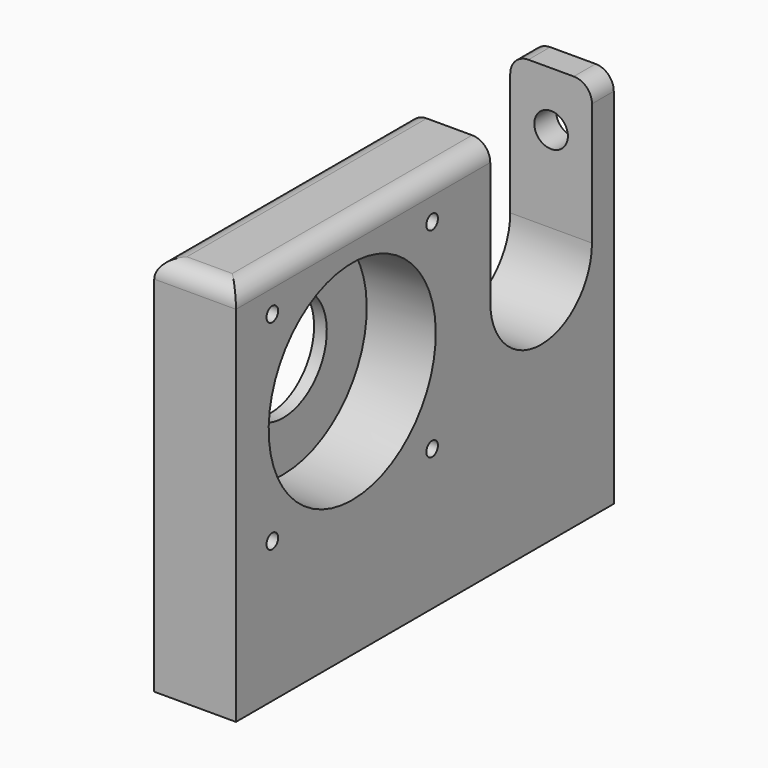
from build123d import *

# Parameters (mm, degrees)
CYLINDER100_R               = 6
CYLINDER100_DEPTH           = 9
CYLINDER020_R               = 0.8
CYLINDER020_DEPTH           = 20
ARRAY001006_X_COUNT         = 2
ARRAY001006_X_PITCH         = 22
ARRAY001006_Y_COUNT         = 2
ARRAY001006_Y_PITCH         = 22
ARRAY001006_PLACEMENT_ANGLE = 90
CYLINDER101_R               = 7
CYLINDER101_DEPTH           = 9
BOX008_W                    = 14
BOX008_H                    = 50
BOX008_DEPTH                = 9
FUSION008_ROLL_ANGLE        = 90
FUSION008_PLACEMENT_ANGLE   = 90
CYLINDER106_R               = 2.1
CYLINDER106_DEPTH           = 10
CYLINDER105_R               = 1.85
CYLINDER105_DEPTH           = 20
FUSION009_PLACEMENT_ANGLE   = 90
CYLINDER099_R               = 11.5
CYLINDER099_DEPTH           = 9
BOX_W                       = 9
BOX_H                       = 52
BOX_DEPTH                   = 42
FILLET_R                    = 2


with BuildPart() as lead_hole:
    # Cylinder100 → Cylinder100 (new body)
    with BuildSketch(Plane(origin=(111, 0, 21.5), x_dir=(0, 0, -1), z_dir=(1, 0, 0))):
        Circle(CYLINDER100_R)
    extrude(amount=CYLINDER100_DEPTH)


with BuildPart() as lead_holder_hole_array001:
    # Cylinder020 → Cylinder020 (new body)
    with BuildSketch(Plane.XY):
        Circle(CYLINDER020_R)
    extrude(amount=CYLINDER020_DEPTH)

    # Array001006 X: lead holder hole array001 ×2


with BuildPart() as lead_holder_hole_array001_1:
    add(lead_holder_hole_array001.part)
    with Locations(*[(i * ARRAY001006_X_PITCH, 0, 0) for i in range(1, ARRAY001006_X_COUNT)]):
        add(lead_holder_hole_array001.part)

    # Array001006 Y: lead holder hole array001 ×2


with BuildPart() as lead_holder_hole_array001_2:
    add(lead_holder_hole_array001_1.part)
    with Locations(*[(0, i * ARRAY001006_Y_PITCH, 0) for i in range(1, ARRAY001006_Y_COUNT)]):
        add(lead_holder_hole_array001_1.part)


with BuildPart() as lead_holder_hole_array001_3:
    # Array001006 placement: moved
    add(lead_holder_hole_array001_2.part.moved(Location((111, -11, 32.5))).rotate(Axis((111, -11, 32.5), (0, 1, 0)), ARRAY001006_PLACEMENT_ANGLE))


with BuildPart() as syringe_hole:
    # Cylinder101 → Cylinder101 (new body)
    with BuildSketch(Plane.XY):
        Circle(CYLINDER101_R)
    extrude(amount=CYLINDER101_DEPTH)


with BuildPart() as syringe_hole_fusion:
    # Box008 → Box008 (new body)
    with BuildSketch(Plane(origin=(-7, 0, 0), x_dir=(1, 0, 0), z_dir=(0, 0, 1))):
        with Locations((7, 25)):
            Rectangle(BOX008_W, BOX008_H)
    extrude(amount=BOX008_DEPTH)

    # Fusion008: union syringe_hole
    add(syringe_hole.part)


with BuildPart() as syringe_hole_fusion_1:
    # Fusion008 roll: moved
    add(syringe_hole_fusion.part.rotate(Axis((0, 0, 0), (1, 0, 0)), FUSION008_ROLL_ANGLE))


with BuildPart() as syringe_hole_fusion_2:
    # Fusion008 placement: moved
    add(syringe_hole_fusion_1.part.moved(Location((111, 26, 21.5))).rotate(Axis((111, 26, 21.5), (0, 0, 1)), FUSION008_PLACEMENT_ANGLE))


with BuildPart() as insert_hole001:
    # Cylinder106 → Cylinder106 (new body)
    with BuildSketch(Plane.XY):
        Circle(CYLINDER106_R)
    extrude(amount=CYLINDER106_DEPTH)


with BuildPart() as bolt_insert_hole_fusion:
    # Cylinder105 → Cylinder105 (new body)
    with BuildSketch(Plane.XY.offset(10)):
        Circle(CYLINDER105_R)
    extrude(amount=CYLINDER105_DEPTH)

    # Fusion009: union insert hole001
    add(insert_hole001.part)


with BuildPart() as bolt_insert_hole_fusion_1:
    # Fusion009 placement: moved
    add(bolt_insert_hole_fusion.part.moved(Location((115.5, 12, 31))).rotate(Axis((115.5, 12, 31), (-1, 0, 0)), FUSION009_PLACEMENT_ANGLE))


with BuildPart() as bearing_hole_fusion:
    # Cylinder099 → Cylinder099 (new body)
    with BuildSketch(Plane(origin=(112.4, 0, 21.5), x_dir=(0, 0, -1), z_dir=(1, 0, 0))):
        Circle(CYLINDER099_R)
    extrude(amount=CYLINDER099_DEPTH)

    # Fusion: union lead hole, lead holder hole array001, syringe hole fusion, bolt insert hole fusion
    add(lead_hole.part)
    add(lead_holder_hole_array001_3.part)
    add(syringe_hole_fusion_2.part)
    add(bolt_insert_hole_fusion_1.part)


with BuildPart() as bearing_wall_cut:
    # Box → Box (new body)
    with BuildSketch(Plane(origin=(0, -16, -5), x_dir=(1, 0, 0), z_dir=(0, 0, 1))):
        with Locations((4.5, 26)):
            Rectangle(BOX_W, BOX_H)
    extrude(amount=BOX_DEPTH)

    # Fillet
    fillet_edges = [bearing_wall_cut.edges().sort_by_distance(p)[0] for p in [
        (0, 10, 37),
        (9, 10, 37),
        (4.5, -16, 37),
    ]]
    fillet(fillet_edges, radius=FILLET_R)


with BuildPart() as bearing_wall_cut_1:
    # Compound placement: moved
    add(bearing_wall_cut.part.moved(Location((111, 0, 0))))

    # Cut: cut bearing hole fusion
    add(bearing_hole_fusion.part, mode=Mode.SUBTRACT)


solid = bearing_wall_cut_1.part
